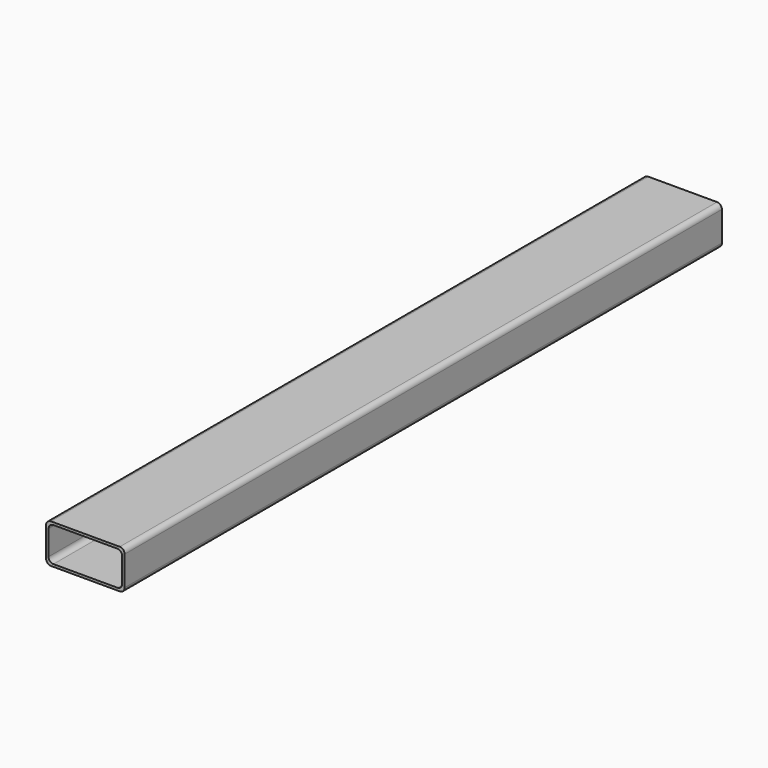
from build123d import *

# Parameters (mm, degrees)
F1_DEPTH = 1930.4


with BuildPart() as f1:
    # F0 (on Front) → F1 (new body)
    with BuildSketch(Plane.XZ):
        with BuildLine():
            ThreePointArc((0, 12.7), (3.719744, 3.719744), (12.7, 0))
            Line((12.7, 0), (190.5, 0))
            ThreePointArc((190.5, 0), (199.480256, 3.719744), (203.2, 12.7))
            Line((203.2, 12.7), (203.2, 88.9))
            ThreePointArc((203.2, 88.9), (199.480256, 97.880256), (190.5, 101.6))
            Line((190.5, 101.6), (12.7, 101.6))
            ThreePointArc((12.7, 101.6), (3.719744, 97.880256), (0, 88.9))
            Line((0, 88.9), (0, 12.7))
        make_face()
        with BuildLine():
            Line((184.15, 6.35), (19.05, 6.35))
            ThreePointArc((19.05, 6.35), (10.069744, 10.069744), (6.35, 19.05))
            Line((6.35, 19.05), (6.35, 82.55))
            ThreePointArc((6.35, 82.55), (10.069744, 91.530256), (19.05, 95.25))
            Line((19.05, 95.25), (184.15, 95.25))
            ThreePointArc((184.15, 95.25), (193.130256, 91.530256), (196.85, 82.55))
            Line((196.85, 82.55), (196.85, 19.05))
            ThreePointArc((196.85, 19.05), (193.130256, 10.069744), (184.15, 6.35))
        make_face(mode=Mode.SUBTRACT)
    extrude(amount=F1_DEPTH)


solid = f1.part
